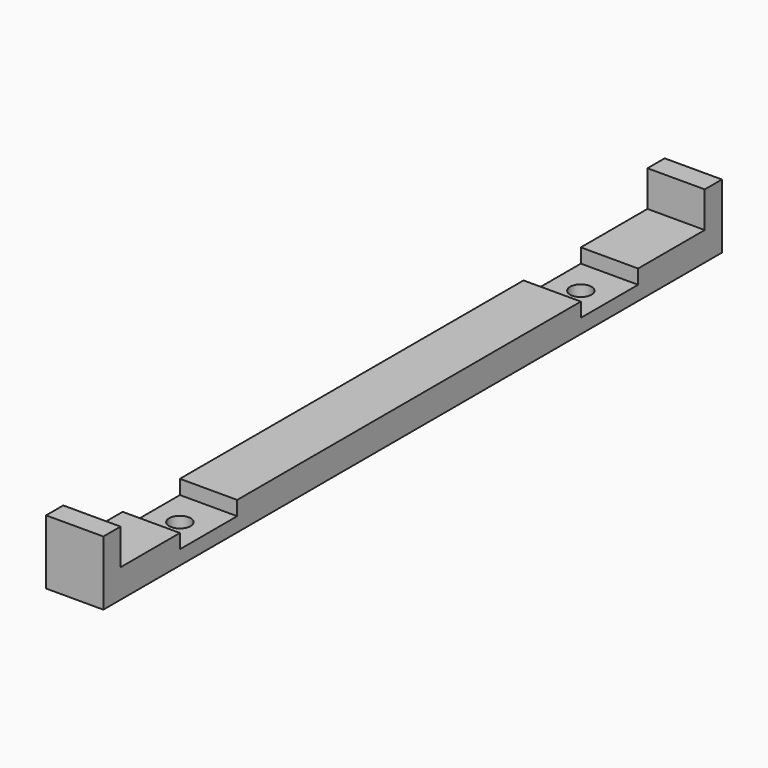
from build123d import *

# Parameters (mm, degrees)
F0_W     = 8
F0_H     = 108
F1_DEPTH = 2
F2_W     = 8
F2_H     = 3
F3_DEPTH = 5
F5_D     = 3
F6_W     = 8
F6_H     = 10
F6_R     = 1.5
F7_DEPTH = 2


with BuildPart() as f1:
    # F0 (on Top) → F1 (new body, symmetric)
    with BuildSketch(Plane.XY):
        Rectangle(F0_W, F0_H)
        Rectangle(F0_W, F0_H)
    extrude(amount=F1_DEPTH, both=True)

    # F2 (on face) → F3 (join)
    with BuildSketch(Plane.XY.offset(2)):
        with Locations((0, 52.5)):
            Rectangle(F2_W, F2_H)
        with Locations((0, -52.5)):
            Rectangle(F2_W, F2_H)
    extrude(amount=F3_DEPTH)

    # F5 (through all)
    with Locations(Plane.XY.offset(2)):
        with Locations((0, 34.365942), (0, -35.634058)):
            Hole(F5_D / 2)

    # F6 (on face) → F7 (cut)
    with BuildSketch(Plane.XY.offset(2)):
        with Locations((0, -35.634058)):
            Rectangle(F6_W, F6_H)
        with Locations((0, -35.634058)):
            Circle(F6_R, mode=Mode.SUBTRACT)
        with Locations((0, 34.365942)):
            Rectangle(F6_W, F6_H)
        with Locations((0, 34.365942)):
            Circle(F6_R, mode=Mode.SUBTRACT)
    extrude(amount=-F7_DEPTH, mode=Mode.SUBTRACT)


solid = f1.part
